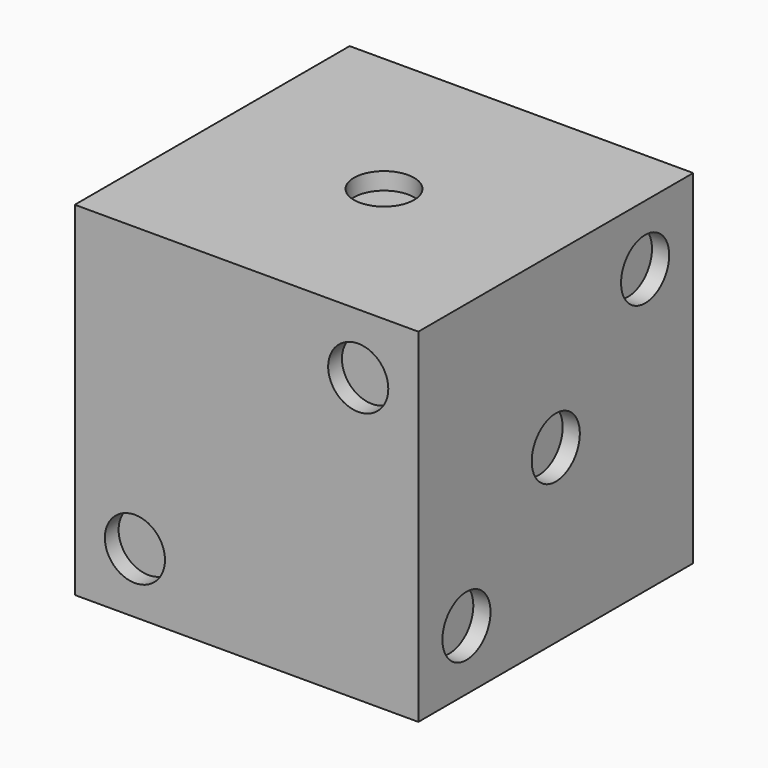
from build123d import *

# Parameters (mm, degrees)
F0_W      = 127
F0_H      = 127
F1_DEPTH  = 127
F2_R      = 11.1125
F3_DEPTH  = 6.35
F4_R      = 11.1125
F5_DEPTH  = 6.35
F6_R      = 11.1125
F7_DEPTH  = 6.35
F8_R      = 11.1125
F9_DEPTH  = 6.35
F10_R     = 11.1125
F11_DEPTH = 6.35
F12_R     = 11.1125
F13_DEPTH = 6.35


with BuildPart() as f1:
    # F0 (on Top) → F1 (new body)
    with BuildSketch(Plane.XY):
        with Locations((63.5, 63.5)):
            Rectangle(F0_W, F0_H)
    extrude(amount=F1_DEPTH)

    # F2 (on face) → F3 (cut)
    with BuildSketch(Plane.XY.offset(127)):
        with Locations((63.5, 63.5)):
            Circle(F2_R)
    extrude(amount=-F3_DEPTH, mode=Mode.SUBTRACT)

    # F4 (on face) → F5 (cut)
    with BuildSketch(Plane.XZ):
        with Locations((22.225, 22.225)):
            Circle(F4_R)
        with Locations((104.775, 104.775)):
            Circle(F4_R)
    extrude(amount=-F5_DEPTH, mode=Mode.SUBTRACT)

    # F6 (on face) → F7 (cut)
    with BuildSketch(Plane.YZ.offset(127)):
        with Locations((22.225, 22.225)):
            Circle(F6_R)
        with Locations((63.5, 63.5)):
            Circle(F6_R)
        with Locations((104.775, 104.775)):
            Circle(F6_R)
    extrude(amount=-F7_DEPTH, mode=Mode.SUBTRACT)

    # F8 (on face) → F9 (cut)
    with BuildSketch(Plane(origin=(0, 127, 0), x_dir=(-1, 0, 0), z_dir=(0, 1, 0))):
        with Locations((-22.225, 104.775)):
            Circle(F8_R)
        with Locations((-104.775, 104.775)):
            Circle(F8_R)
        with Locations((-104.775, 28.230721)):
            Circle(F8_R)
        with Locations((-22.225, 22.225)):
            Circle(F8_R)
    extrude(amount=-F9_DEPTH, mode=Mode.SUBTRACT)

    # F10 (on face) → F11 (cut)
    with BuildSketch(Plane(origin=(0, 0, 0), x_dir=(1, 0, 0), z_dir=(0, 0, -1))):
        with Locations((22.225, -104.775)):
            Circle(F10_R)
        with Locations((63.5, -63.5)):
            Circle(F10_R)
        with Locations((104.775, -22.225)):
            Circle(F10_R)
        with Locations((22.225, -22.225)):
            Circle(F10_R)
        with Locations((104.775, -104.775)):
            Circle(F10_R)
    extrude(amount=-F11_DEPTH, mode=Mode.SUBTRACT)

    # F12 (on face) → F13 (cut)
    with BuildSketch(Plane(origin=(0, 0, 0), x_dir=(0, -1, 0), z_dir=(-1, 0, 0))):
        with Locations((-104.775, 104.775)):
            Circle(F12_R)
        with Locations((-104.775, 63.5)):
            Circle(F12_R)
        with Locations((-104.775, 22.225)):
            Circle(F12_R)
        with Locations((-22.225, 104.775)):
            Circle(F12_R)
        with Locations((-22.225, 63.5)):
            Circle(F12_R)
        with Locations((-22.225, 22.225)):
            Circle(F12_R)
    extrude(amount=-F13_DEPTH, mode=Mode.SUBTRACT)


solid = f1.part
